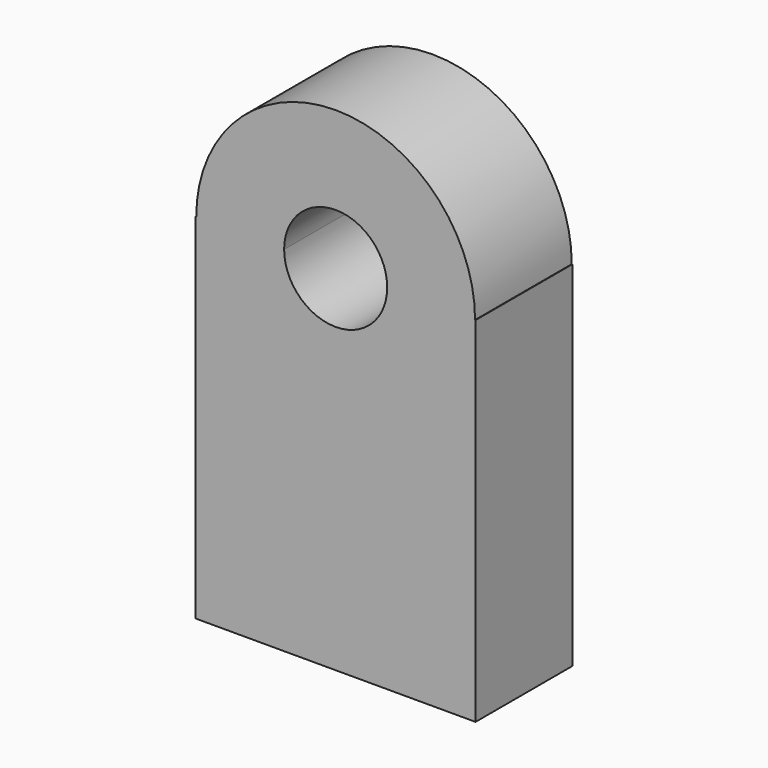
from build123d import *

# Parameters (mm, degrees)
F1_DEPTH = 31.75


with BuildPart() as f1:
    # F0 (on Front) → F1 (new body)
    with BuildSketch(Plane.XZ):
        with BuildLine():
            Line((13.53331, 46.457417), (36.619591, 46.457417))
            ThreePointArc((36.619591, 46.457417), (0, 83.077008), (-36.619591, 46.457417))
            Line((-36.619591, 46.457417), (-13.53331, 46.457417))
            ThreePointArc((-13.53331, 46.457417), (0, 59.990727), (13.53331, 46.457417))
        make_face()
        with BuildLine():
            Line((-36.748067, -46.457417), (36.748067, -46.457417))
            Line((36.748067, -46.457417), (36.748067, 46.457417))
            Line((36.748067, 46.457417), (36.619591, 46.457417))
            Line((36.619591, 46.457417), (13.53331, 46.457417))
            ThreePointArc((13.53331, 46.457417), (0, 32.924108), (-13.53331, 46.457417))
            Line((-13.53331, 46.457417), (-36.619591, 46.457417))
            Line((-36.619591, 46.457417), (-36.748067, 46.457417))
            Line((-36.748067, 46.457417), (-36.748067, -46.457417))
        make_face()
    extrude(amount=F1_DEPTH)


solid = f1.part
